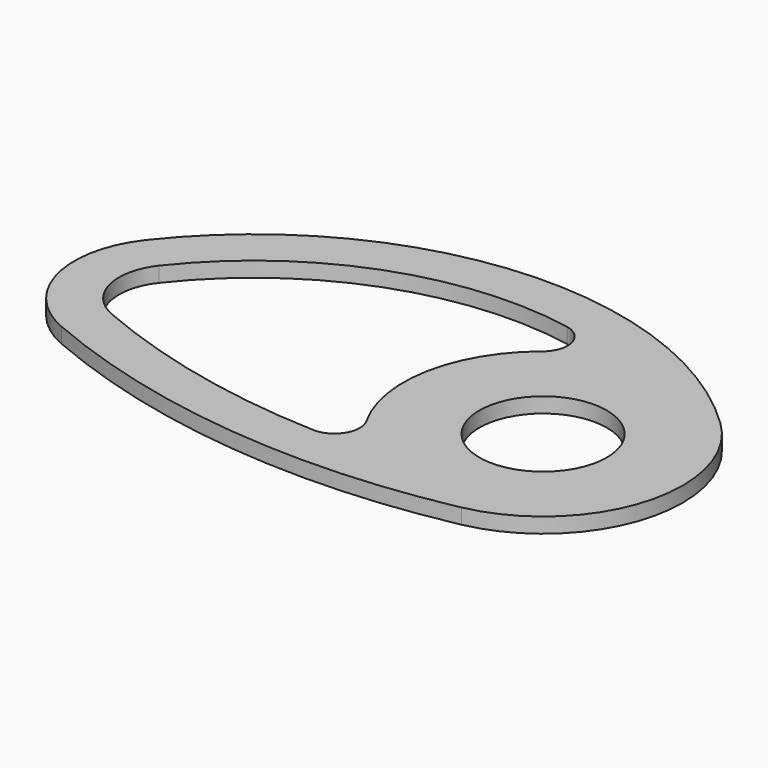
from build123d import *

# Parameters (mm, degrees)
F0_R     = 16.002
F1_DEPTH = 3.81


with BuildPart() as f1:
    # F0 (on Top) → F1 (new body)
    with BuildSketch(Plane.XY):
        with BuildLine():
            ThreePointArc((116.498068, 25.265466), (46.118344, 50.780983), (-19.995759, 15.663002))
            ThreePointArc((-19.995759, 15.663002), (-24.598978, -6.328531), (-9.954281, -23.36819))
            ThreePointArc((-9.954281, -23.36819), (43.812733, -37.177105), (99.25193, -34.335713))
            ThreePointArc((99.25193, -34.335713), (125.87273, -9.742929), (116.498068, 25.265466))
        make_face()
        with Locations((92.202, 0)):
            Circle(F0_R, mode=Mode.SUBTRACT)
        with BuildLine():
            ThreePointArc((67.371667, 38.472363), (72.369526, 33.785025), (70.19916, 27.285853))
            ThreePointArc((70.19916, 27.285853), (57.764856, 6.536498), (61.731425, -17.325899))
            ThreePointArc((61.731425, -17.325899), (61.641762, -23.756091), (55.982626, -26.810526))
            ThreePointArc((55.982626, -26.810526), (24.573321, -22.777617), (-5.574397, -13.086186))
            ThreePointArc((-5.574397, -13.086186), (-13.775427, -3.543977), (-11.197625, 8.771281))
            ThreePointArc((-11.197625, 8.771281), (23.937877, 34.597694), (67.371667, 38.472363))
        make_face(mode=Mode.SUBTRACT)
    extrude(amount=F1_DEPTH)


solid = f1.part
